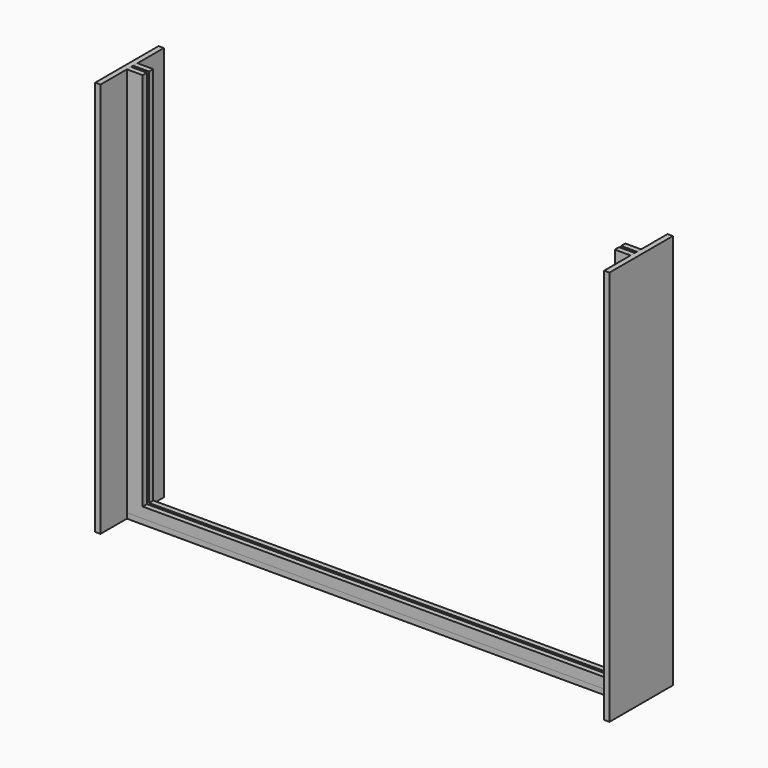
from build123d import *

# Parameters (mm, degrees)
F1_DEPTH = 7.5
F0_W     = 95.5
F0_H     = 1
F2_DEPTH = 1.25
F3_START = 0.25
F3_DEPTH = 1
F4_START = -0.25
F4_DEPTH = 1


with BuildPart() as f1:
    # F0 (on Front) → F1 (new body, symmetric)
    with BuildSketch(Plane.XZ):
        Polygon((-48.75, 0), (-47.75, 0), (-47.75, 1), (-47.75, 75), (-48.75, 75), align=None)
    extrude(amount=F1_DEPTH, both=True)


with BuildPart() as f1b:
    # F0 (on Front) → F1, piece 2 (new body, symmetric)
    with BuildSketch(Plane.XZ):
        Polygon((47.75, 1), (47.75, 0), (48.75, 0), (48.75, 75), (47.75, 75), align=None)
    extrude(amount=F1_DEPTH, both=True)


with BuildPart() as f2:
    # F0 (on Front) → F2 (new body, symmetric)
    with BuildSketch(Plane.XZ):
        with Locations((0, 0.5)):
            Rectangle(F0_W, F0_H)
    extrude(amount=F2_DEPTH, both=True)


with BuildPart() as f3:
    # F0 (on Front) → F3 (new body)
    with BuildSketch(Plane.XZ.offset(F3_START)):
        Polygon((-47.75, 75), (-47.75, 1), (47.75, 1), (47.75, 75), (44.75, 75), (44.75, 3), (0, 3), (-44.75, 3), (-44.75, 75), align=None)
    extrude(amount=F3_DEPTH)


with BuildPart() as f4:
    # F0 (on Front) → F4 (new body)
    with BuildSketch(Plane.XZ.offset(F4_START)):
        Polygon((-47.75, 75), (-47.75, 1), (47.75, 1), (47.75, 75), (44.75, 75), (44.75, 3), (0, 3), (-44.75, 3), (-44.75, 75), align=None)
    extrude(amount=-F4_DEPTH)


solid = Compound([f1.part, f1b.part, f2.part, f3.part, f4.part])
